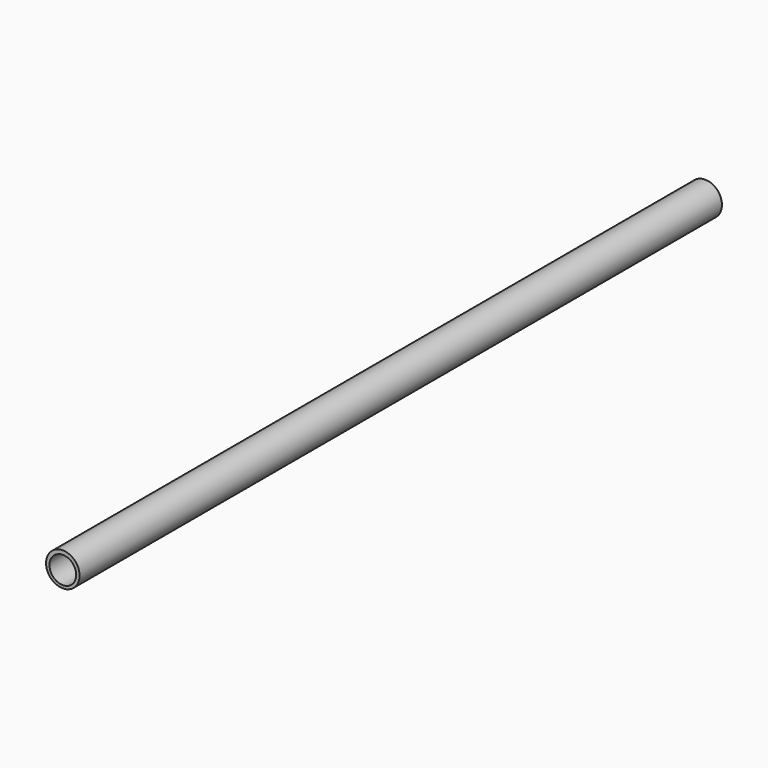
from build123d import *

# Parameters (mm, degrees)
F0_R     = 16.7005
F0_R_2   = 13.3223
F1_DEPTH = 400


with BuildPart() as f1:
    # F0 (on Front) → F1 (new body, symmetric)
    with BuildSketch(Plane.XZ):
        Circle(F0_R)
        with Locations((0.033745, -0.549882)):
            Circle(F0_R_2, mode=Mode.SUBTRACT)
    extrude(amount=F1_DEPTH, both=True)


solid = f1.part
